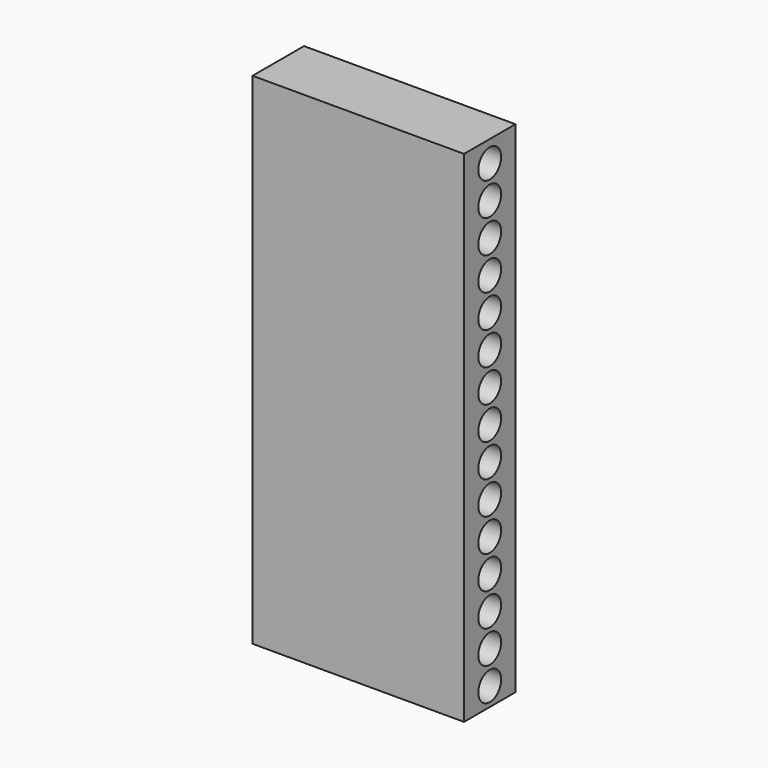
from build123d import *

# Parameters (mm, degrees)
F0_W     = 14.8
F0_H     = 35
F1_DEPTH = 4.5
F2_R     = 1
F3_DEPTH = 14.801


with BuildPart() as f1:
    # F0 (on Front) → F1 (new body)
    with BuildSketch(Plane.XZ):
        Rectangle(F0_W, F0_H)
    extrude(amount=F1_DEPTH)

    # F2 (on face) → F3 (cut, through all)
    with BuildSketch(Plane(origin=(-7.4, 0, 0), x_dir=(0, -1, 0), z_dir=(-1, 0, 0))):
        with Locations((2.25, 16)):
            Circle(F2_R)
        with Locations((2.25, 13.7)):
            Circle(F2_R)
        with Locations((2.25, 11.4)):
            Circle(F2_R)
        with Locations((2.25, 9.1)):
            Circle(F2_R)
        with Locations((2.25, 6.8)):
            Circle(F2_R)
        with Locations((2.25, 4.5)):
            Circle(F2_R)
        with Locations((2.25, 2.2)):
            Circle(F2_R)
        with Locations((2.25, -0.1)):
            Circle(F2_R)
        with Locations((2.25, -2.4)):
            Circle(F2_R)
        with Locations((2.25, -4.7)):
            Circle(F2_R)
        with Locations((2.25, -7)):
            Circle(F2_R)
        with Locations((2.25, -9.3)):
            Circle(F2_R)
        with Locations((2.25, -11.6)):
            Circle(F2_R)
        with Locations((2.25, -13.9)):
            Circle(F2_R)
        with Locations((2.25, -16.2)):
            Circle(F2_R)
    extrude(amount=-F3_DEPTH, mode=Mode.SUBTRACT)


solid = f1.part
